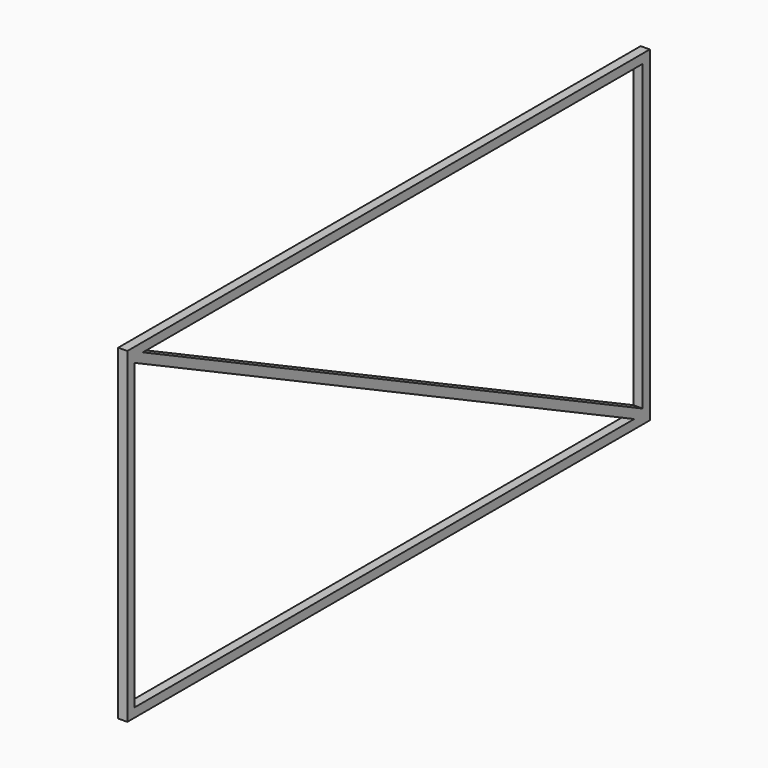
from build123d import *

# Parameters (mm, degrees)
F0_W     = 144
F0_H     = 72
F1_DEPTH = 2


with BuildPart() as f1:
    # F0 (on Right) → F1 (new body)
    with BuildSketch(Plane.YZ):
        with Locations((72, 36)):
            Rectangle(F0_W, F0_H)
        Polygon((139.711167, 2), (2, 2), (2, 68.888281), align=None, mode=Mode.SUBTRACT)
        Polygon((4.288833, 70), (142, 70), (142, 3.111719), align=None, mode=Mode.SUBTRACT)
    extrude(amount=F1_DEPTH)


solid = f1.part
